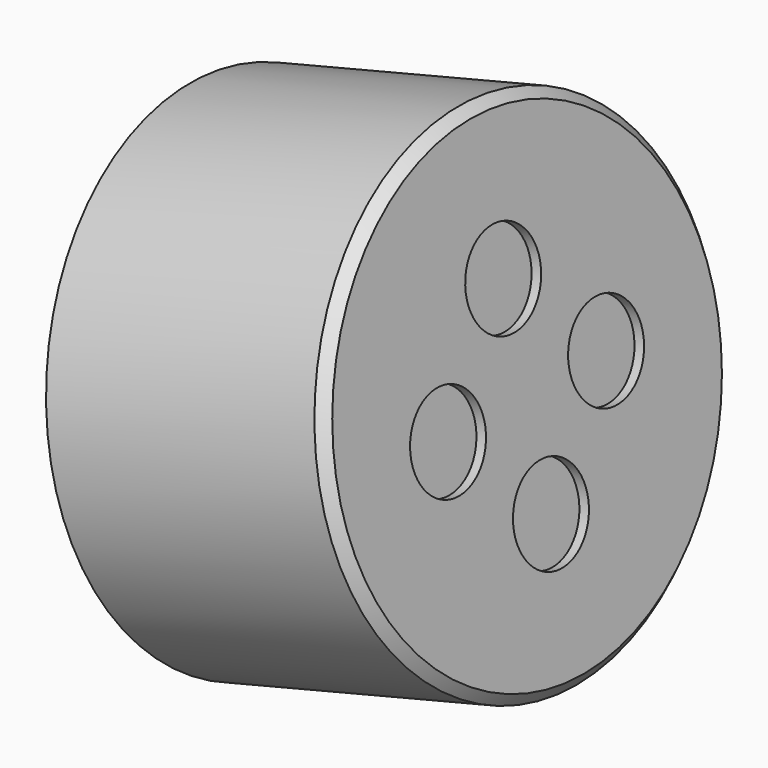
from build123d import *

# Parameters (mm, degrees)
CYLINDER005_R            = 11.3
CYLINDER005_DEPTH        = 14.5
CYLINDER004_R            = 2.3
CYLINDER004_DEPTH        = 14.5
ARRAY_COUNT              = 4
CYLINDER003_R            = 8.3
CYLINDER003_DEPTH        = 14.5
CYLINDER002_R            = 12.3
CYLINDER002_DEPTH        = 14.5
CHAMFER_SIZE             = 0.5
CLONE001_PLACEMENT_ANGLE = 76


with BuildPart() as cylinder005:
    # Cylinder005 → Cylinder005 (new body)
    with BuildSketch(Plane.XY.offset(-1)):
        Circle(CYLINDER005_R)
    extrude(amount=CYLINDER005_DEPTH)


with BuildPart() as array:
    # Cylinder004 → Cylinder004 (new body)
    with BuildSketch(Plane(origin=(0, -5, 14), x_dir=(1, 0, 0), z_dir=(0, 0, 1))):
        Circle(CYLINDER004_R)
    extrude(amount=CYLINDER004_DEPTH)

    # Array: Array ×4 about axis
    array_axis = Axis((0, 0, 0), (0, 0, 1))


with BuildPart() as array_1:
    add(array.part)
    for i in range(1, ARRAY_COUNT):
        add(array.part.rotate(array_axis, i * 360 / ARRAY_COUNT))


with BuildPart() as cylinder003:
    # Cylinder003 → Cylinder003 (new body)
    with BuildSketch(Plane.XY.offset(14.5)):
        Circle(CYLINDER003_R)
    extrude(amount=CYLINDER003_DEPTH)


with BuildPart() as cup_compound_clone:
    # Cylinder002 → Cylinder002 (new body)
    with BuildSketch(Plane.XY):
        Circle(CYLINDER002_R)
    extrude(amount=CYLINDER002_DEPTH)

    # Cut002: cut Cylinder003
    add(cylinder003.part, mode=Mode.SUBTRACT)

    # Cut003: cut Array
    add(array_1.part, mode=Mode.SUBTRACT)

    # Cut004: cut Cylinder005
    add(cylinder005.part, mode=Mode.SUBTRACT)

    # Chamfer
    chamfer_edges = [cup_compound_clone.edges().sort_by_distance(p)[0] for p in [
        (-12.3, 0, 14.5),
    ]]
    chamfer(chamfer_edges, length=CHAMFER_SIZE)


with BuildPart() as cup_compound_clone_1:
    # Clone001 placement: moved
    add(cup_compound_clone.part.moved(Location((76, 24, 18))).rotate(Axis((76, 24, 18), (0, 1, 0)), CLONE001_PLACEMENT_ANGLE))


solid = cup_compound_clone_1.part
